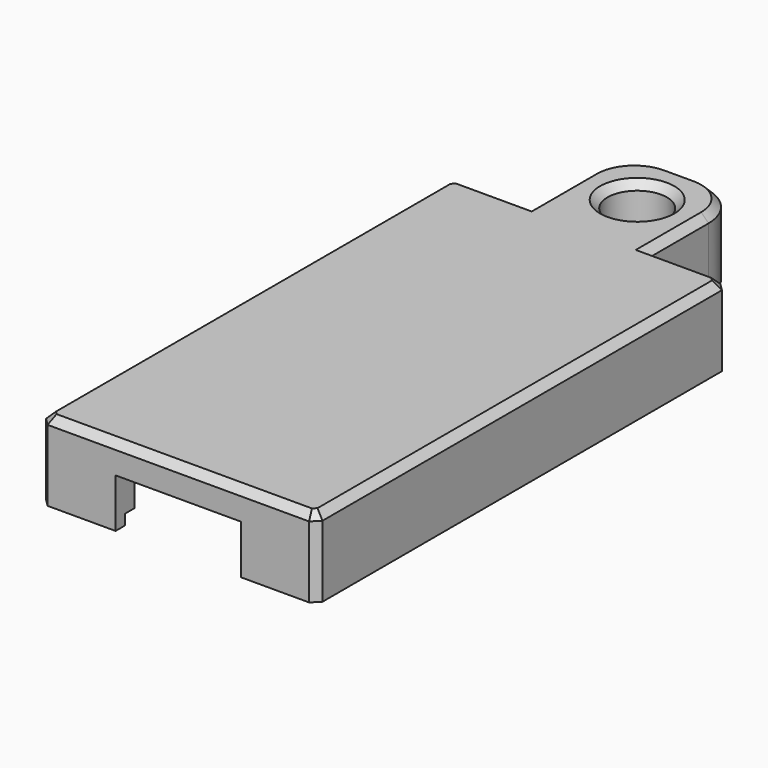
from build123d import *

# Parameters (mm, degrees)
SKETCH_W           = 15.4
SKETCH_H           = 31.4
PAD_DEPTH          = 3
THICKNESS_T        = 1.6
SKETCH001_W        = 18.6
SKETCH001_H        = 34.6
SKETCH001_W_2      = 17
SKETCH001_H_2      = 33
PAD001_DEPTH       = 0.7
SKETCH002_W        = 8.45
SKETCH002_H        = 3.295
POCKET_DEPTH       = 5
SKETCH003_R        = 2
PAD002_DEPTH       = 1.49
SKETCH004_R        = 1
POCKET001_DEPTH    = 2.1
SKETCH009_W        = 8
SKETCH009_H        = 5.3
PAD006_DEPTH       = 8
SKETCH010_R        = 2
POCKET002_DEPTH    = 5.301
FILLET_R           = 3
CHAMFER_SIZE       = 0.5
CHAMFER001_SIZE    = 0.5
CHAMFER005_1_SIZE2 = 0.4
CHAMFER005_1_SIZE  = 0.2
CHAMFER005_2_SIZE2 = 0.4
CHAMFER005_2_SIZE  = 0.2
CHAMFER005_3_SIZE2 = 0.4
CHAMFER005_3_SIZE  = 0.2
CHAMFER005_4_SIZE2 = 0.4
CHAMFER005_4_SIZE  = 0.2


with BuildPart() as part:
    # Sketch (on Face2746 of Binder) → Pad (new body)
    with BuildSketch(Plane(origin=(0, 0, 0), x_dir=(1, 0, 0), z_dir=(0, 0, -1))):
        with Locations((7.5, -15.5)):
            Rectangle(SKETCH_W, SKETCH_H)
    extrude(amount=-PAD_DEPTH)

    # Thickness
    thickness_openings = [part.faces().sort_by_distance(p)[0] for p in [
        (7.5, 15.5, 0),
    ]]
    offset(amount=THICKNESS_T, openings=thickness_openings, kind=Kind.INTERSECTION)

    # Sketch001 (on Face6 of Thickness) → Pad001 (join)
    with BuildSketch(Plane(origin=(0, 0, 0), x_dir=(1, 0, 0), z_dir=(0, 0, -1))):
        with Locations((7.5, -15.5)):
            Rectangle(SKETCH001_W, SKETCH001_H)
        with Locations((7.5, -15.5)):
            Rectangle(SKETCH001_W_2, SKETCH001_H_2, mode=Mode.SUBTRACT)
    extrude(amount=PAD001_DEPTH)

    # Sketch002 (on Face16 of Pad001) → Pocket (cut)
    with BuildSketch(Plane.XZ.offset(1.8)):
        with Locations((7.5, 0.9475)):
            Rectangle(SKETCH002_W, SKETCH002_H)
    extrude(amount=-POCKET_DEPTH, mode=Mode.SUBTRACT)

    # Sketch003 (on Face18 of Pocket) → Pad002 (join)
    with BuildSketch(Plane(origin=(0, 0, 3), x_dir=(1, 0, 0), z_dir=(0, 0, -1))):
        with Locations((2, -7)):
            Circle(SKETCH003_R)
        with Locations((13, -7)):
            Circle(SKETCH003_R)
        with Locations((2, -29)):
            Circle(SKETCH003_R)
        with Locations((13, -29)):
            Circle(SKETCH003_R)
    extrude(amount=PAD002_DEPTH)

    # Sketch004 (on Face25 of Pad002) → Pocket001 (cut)
    with BuildSketch(Plane(origin=(0, 0, 1.51), x_dir=(1, 0, 0), z_dir=(0, 0, -1))):
        with Locations((2, -7)):
            Circle(SKETCH004_R)
        with Locations((13, -7)):
            Circle(SKETCH004_R)
        with Locations((2, -29)):
            Circle(SKETCH004_R)
        with Locations((13, -29)):
            Circle(SKETCH004_R)
    extrude(amount=-POCKET001_DEPTH, mode=Mode.SUBTRACT)

    # Sketch009 (on Face3 of Pocket001) → Pad006 (join)
    with BuildSketch(Plane(origin=(0, 32.8, 0), x_dir=(-1, 0, 0), z_dir=(0, 1, 0))):
        with Locations((-7.5, 1.95)):
            Rectangle(SKETCH009_W, SKETCH009_H)
    extrude(amount=PAD006_DEPTH)

    # Sketch010 (on Face39 of Pad006) → Pocket002 (cut, through all)
    with BuildSketch(Plane.XY.offset(4.6)):
        with Locations((7.5, 36.8)):
            Circle(SKETCH010_R)
    extrude(amount=-POCKET002_DEPTH, mode=Mode.SUBTRACT)

    # Fillet
    fillet_edges = [part.edges().sort_by_distance(p)[0] for p in [
        (3.5, 40.8, 1.95),
        (11.5, 40.8, 1.95),
    ]]
    fillet(fillet_edges, radius=FILLET_R)

    # Chamfer
    chamfer_edges = [part.edges().sort_by_distance(p)[0] for p in [
        (-1.8, 32.8, 1.95),
        (16.8, 32.8, 1.95),
        (16.8, -1.8, 1.95),
        (-1.8, -1.8, 1.95),
        (16, -1, -0.35),
        (16, 32, -0.35),
        (-1, 32, -0.35),
        (-1, -1, -0.35),
    ]]
    chamfer(chamfer_edges, length=CHAMFER_SIZE)

    # Chamfer001
    chamfer001_edges = [part.edges().sort_by_distance(p)[0] for p in [
        (13.9, 32.8, 4.6),
        (16.55, 32.55, 4.6),
        (11.5, 35.3, 4.6),
        (16.8, 15.5, 4.6),
        (10.62132, 39.92132, 4.6),
        (16.55, -1.55, 4.6),
        (7.5, 40.8, 4.6),
        (7.5, -1.8, 4.6),
        (4.37868, 39.92132, 4.6),
        (-1.55, -1.55, 4.6),
        (3.5, 35.3, 4.6),
        (-1.8, 15.5, 4.6),
        (1.1, 32.8, 4.6),
        (-1.55, 32.55, 4.6),
        (5.5, 36.8, 4.6),
        (11.5, 35.3, -0.7),
        (10.62132, 39.92132, -0.7),
        (7.5, 40.8, -0.7),
        (4.37868, 39.92132, -0.7),
        (3.5, 35.3, -0.7),
    ]]
    chamfer(chamfer001_edges, length=CHAMFER001_SIZE)

    # Chamfer005 1
    chamfer005_1_edges = [part.edges().sort_by_distance(p)[0] for p in [
        (1, 7, 1.51),
    ]]
    chamfer005_1_side = part.faces().sort_by_distance((0.056569, 7, 1.51))[0]
    chamfer(chamfer005_1_edges, length=CHAMFER005_1_SIZE, length2=CHAMFER005_1_SIZE2, reference=chamfer005_1_side)

    # Chamfer005 2
    chamfer005_2_edges = [part.edges().sort_by_distance(p)[0] for p in [
        (12, 7, 1.51),
    ]]
    chamfer005_2_side = part.faces().sort_by_distance((11.056569, 7, 1.51))[0]
    chamfer(chamfer005_2_edges, length=CHAMFER005_2_SIZE, length2=CHAMFER005_2_SIZE2, reference=chamfer005_2_side)

    # Chamfer005 3
    chamfer005_3_edges = [part.edges().sort_by_distance(p)[0] for p in [
        (1, 29, 1.51),
    ]]
    chamfer005_3_side = part.faces().sort_by_distance((0.056569, 29, 1.51))[0]
    chamfer(chamfer005_3_edges, length=CHAMFER005_3_SIZE, length2=CHAMFER005_3_SIZE2, reference=chamfer005_3_side)

    # Chamfer005 4
    chamfer005_4_edges = [part.edges().sort_by_distance(p)[0] for p in [
        (12, 29, 1.51),
    ]]
    chamfer005_4_side = part.faces().sort_by_distance((11.056569, 29, 1.51))[0]
    chamfer(chamfer005_4_edges, length=CHAMFER005_4_SIZE, length2=CHAMFER005_4_SIZE2, reference=chamfer005_4_side)


solid = part.part
